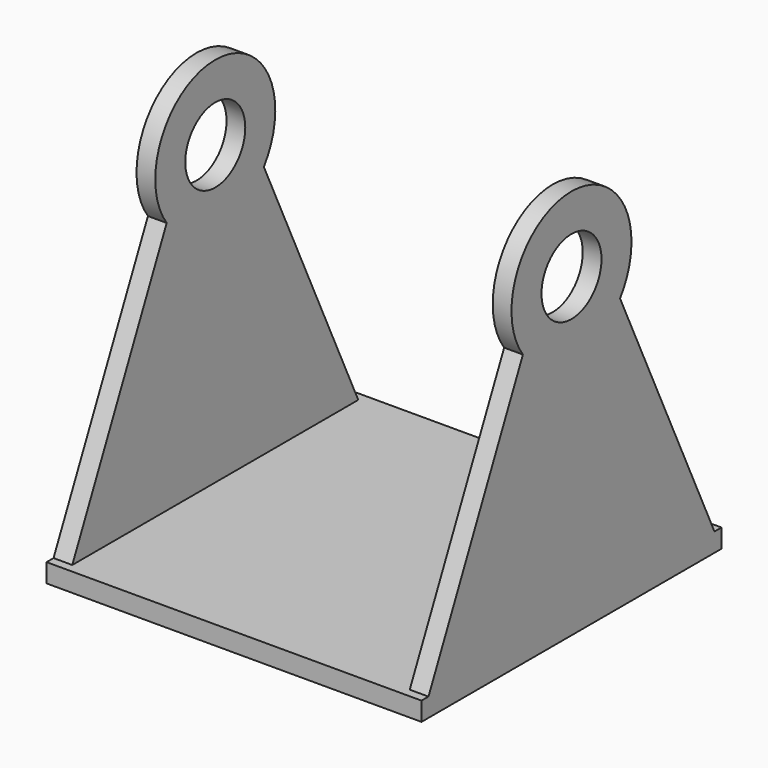
from build123d import *

# Parameters (mm, degrees)
F0_W     = 31.75
F0_H     = 63.5
F1_DEPTH = 3.175
F2_R     = 6.35
F3_DEPTH = 3.175


with BuildPart() as f1:
    # F0 (on Top) → F1 (new body)
    with BuildSketch(Plane.XY):
        with Locations((15.875, 0)):
            Rectangle(F0_W, F0_H)
    extrude(amount=F1_DEPTH)

    # F2 (on face) → F3 (join)
    with BuildSketch(Plane.YZ.offset(31.75)):
        Polygon((-10.280992, 46.040436), (-30.269473, 3.175), (30.269473, 3.175), (10.280992, 46.040436), align=None)
        with BuildLine():
            ThreePointArc((10.280992, 46.040436), (0, 66.196386), (-10.280992, 46.040436))
            Line((-10.280992, 46.040436), (10.280992, 46.040436))
        make_face()
        with Locations((0, 53.496386)):
            Circle(F2_R, mode=Mode.SUBTRACT)
    extrude(amount=-F3_DEPTH)

    # F4: F1 across plane


with BuildPart() as f1_1:
    add(f1.part)
    add(f1.part.mirror(Plane.YZ))


solid = f1_1.part
